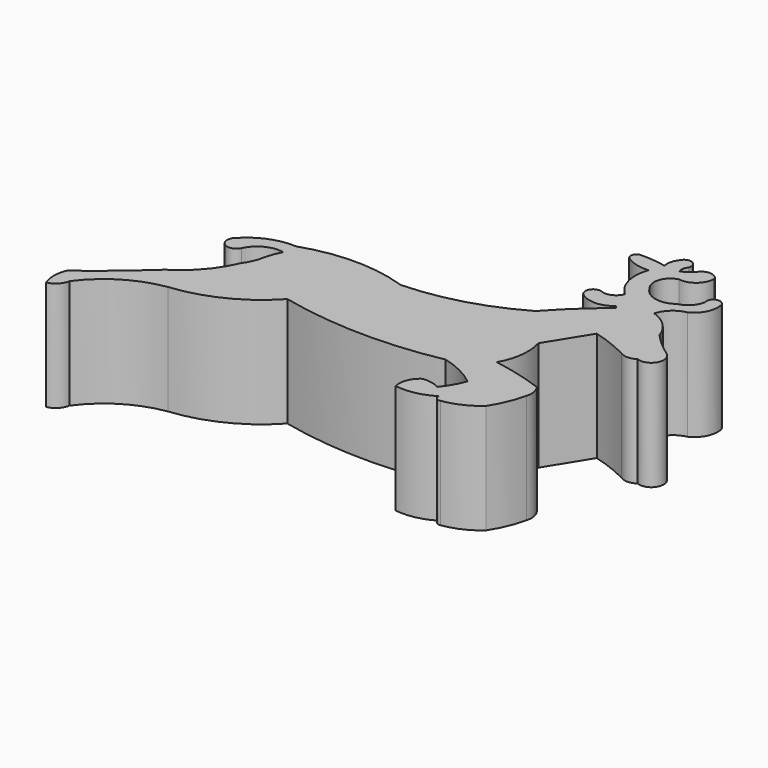
from build123d import *

# Parameters (mm, degrees)
F1_DEPTH = 25.4


with BuildPart() as f1:
    # F0 (on Top) → F1 (new body)
    with BuildSketch(Plane.XY):
        with BuildLine():
            ThreePointArc((35.357989, -55.773497), (34.700263, -57.288462), (33.846916, -58.702506))
            ThreePointArc((33.846916, -58.702506), (30.076924, -64.689377), (24.690598, -69.276638))
            ThreePointArc((24.690598, -69.276638), (18.00206, -75.151493), (11.039559, -80.69893))
            ThreePointArc((11.039559, -80.69893), (10.464903, -83.658978), (11.039559, -86.619027))
            ThreePointArc((11.039559, -86.619027), (13.021343, -85.560107), (14.03443, -83.554506))
            ThreePointArc((14.03443, -83.554506), (20.760438, -77.35253), (29.357025, -74.221656))
            ThreePointArc((29.357025, -74.221656), (40.186668, -71.149018), (49.206674, -64.413905))
            ThreePointArc((49.206674, -64.413905), (67.765139, -66.686066), (86.39013, -65.046228))
            ThreePointArc((86.39013, -65.046228), (90.842719, -66.681712), (94.834223, -69.244571))
            ThreePointArc((94.834223, -69.244571), (93.58406, -71.906754), (91.913037, -74.327044))
            ThreePointArc((91.913037, -74.327044), (89.952947, -73.623328), (87.874644, -73.489815))
            ThreePointArc((87.874644, -73.489815), (85.993248, -75.819788), (85.806198, -78.808673))
            ThreePointArc((85.806198, -78.808673), (90.243806, -78.661543), (94.375476, -77.035718))
            ThreePointArc((94.375476, -77.035718), (94.732683, -77.994564), (95.723428, -78.250311))
            ThreePointArc((95.723428, -78.250311), (99.839405, -77.015924), (103.444606, -74.677654))
            ThreePointArc((103.444606, -74.677654), (105.422994, -70.957733), (106.698684, -66.942208))
            ThreePointArc((106.698684, -66.942208), (106.805126, -64.950848), (106.006868, -63.123383))
            ThreePointArc((106.006868, -63.123383), (100.195754, -61.321046), (94.247706, -60.04113))
            ThreePointArc((94.247706, -60.04113), (95.936674, -54.912618), (95.482543, -49.532283))
            ThreePointArc((95.482543, -49.532283), (98.447384, -44.774679), (101.387411, -40.001702))
            ThreePointArc((101.387411, -40.001702), (105.597536, -41.38767), (109.645344, -43.193579))
            ThreePointArc((109.645344, -43.193579), (111.519486, -43.779772), (113.393627, -43.193579))
            ThreePointArc((113.393627, -43.193579), (117.01848, -41.827539), (115.970574, -38.098261))
            ThreePointArc((115.970574, -38.098261), (113.180417, -35.898183), (110.64098, -33.412911))
            ThreePointArc((110.64098, -33.412911), (108.327022, -29.635914), (104.550026, -27.321953))
            ThreePointArc((104.550026, -27.321953), (106.217319, -24.648898), (109.025061, -23.220027))
            ThreePointArc((109.025061, -23.220027), (111.496496, -20.781246), (112.031601, -17.350603))
            ThreePointArc((112.031601, -17.350603), (110.113696, -16.106507), (109.025061, -18.116733))
            ThreePointArc((109.025061, -18.116733), (107.794978, -20.560822), (105.402686, -21.888833))
            ThreePointArc((105.402686, -21.888833), (101.226365, -22.791684), (97.81839, -20.214379))
            ThreePointArc((97.81839, -20.214379), (97.040255, -16.635745), (99.689841, -14.107542))
            ThreePointArc((99.689841, -14.107542), (103.139321, -13.121868), (104.59435, -9.842637))
            ThreePointArc((104.59435, -9.842637), (102.452988, -8.646448), (100.360706, -9.926547))
            ThreePointArc((100.360706, -9.926547), (99.206159, -10.920505), (97.81839, -11.549016))
            ThreePointArc((97.81839, -11.549016), (97.7106, -10.42277), (98.19214, -9.39897))
            ThreePointArc((98.19214, -9.39897), (97.297537, -7.296311), (95.162444, -8.110479))
            ThreePointArc((95.162444, -8.110479), (94.347536, -9.733247), (94.326667, -11.549016))
            ThreePointArc((94.326667, -11.549016), (91.24145, -11.077832), (88.122092, -10.976911))
            ThreePointArc((88.122092, -10.976911), (87.140114, -11.893801), (87.481856, -13.193102))
            ThreePointArc((87.481856, -13.193102), (90.208654, -14.483161), (93.213789, -14.745539))
            ThreePointArc((93.213789, -14.745539), (92.91737, -20.129205), (95.723428, -24.733309))
            ThreePointArc((95.723428, -24.733309), (94.196841, -26.440721), (91.913037, -26.613809))
            ThreePointArc((91.913037, -26.613809), (89.720804, -27.125156), (89.744188, -29.376114))
            ThreePointArc((89.744188, -29.376114), (93.548656, -30.795), (97.353123, -29.376114))
            ThreePointArc((97.353123, -29.376114), (97.623646, -29.667451), (97.814836, -30.016029))
            ThreePointArc((97.814836, -30.016029), (92.320304, -34.797902), (87.223575, -40.001702))
            ThreePointArc((87.223575, -40.001702), (74.926958, -45.213773), (61.732344, -47.281299))
            ThreePointArc((61.732344, -47.281299), (49.657937, -45.265171), (37.58353, -47.281299))
            ThreePointArc((37.58353, -47.281299), (31.965668, -48.141093), (27.217193, -51.263846))
            ThreePointArc((27.217193, -51.263846), (26.912313, -54.662213), (30.26267, -54.01649))
            ThreePointArc((30.26267, -54.01649), (33.073036, -51.058678), (37.114996, -50.502479))
            ThreePointArc((37.114996, -50.502479), (36.047411, -53.074961), (35.357989, -55.773497))
        make_face()
    extrude(amount=F1_DEPTH)


solid = f1.part
